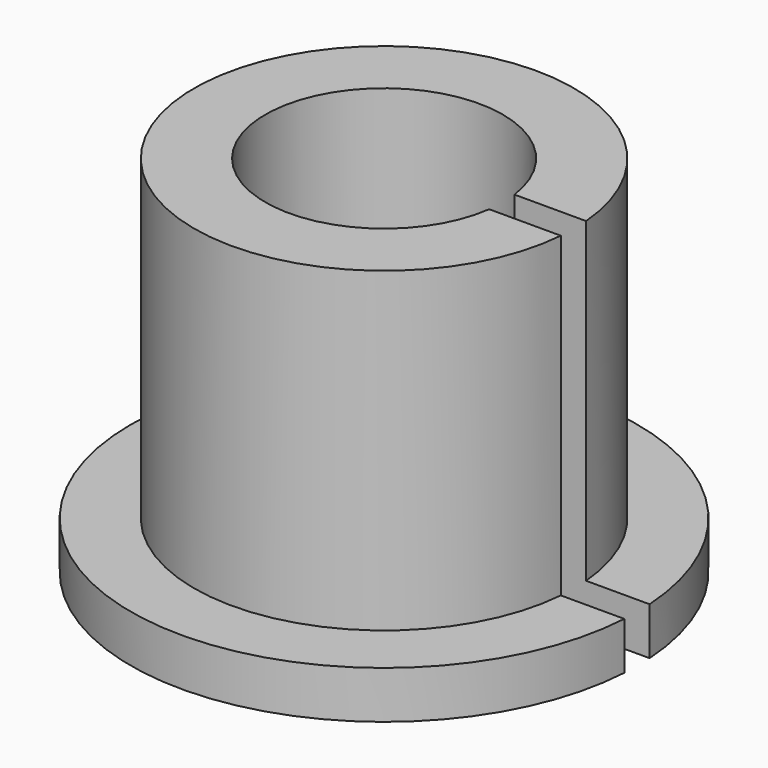
from build123d import *

# Parameters (mm, degrees)
BOX_W             = 10
BOX_H             = 1
BOX_DEPTH         = 14
CYLINDER002_R     = 3.75
CYLINDER002_DEPTH = 14
CYLINDER001_R     = 8
CYLINDER001_DEPTH = 1.5
CYLINDER_R        = 6
CYLINDER_DEPTH    = 11.5


with BuildPart() as opening:
    # Box → Box (new body)
    with BuildSketch(Plane(origin=(0, -0.5, -1), x_dir=(1, 0, 0), z_dir=(0, 0, 1))):
        with Locations((5, 0.5)):
            Rectangle(BOX_W, BOX_H)
    extrude(amount=BOX_DEPTH)


with BuildPart() as inner:
    # Cylinder002 → Cylinder002 (new body)
    with BuildSketch(Plane.XY.offset(-1)):
        Circle(CYLINDER002_R)
    extrude(amount=CYLINDER002_DEPTH)


with BuildPart() as base:
    # Cylinder001 → Cylinder001 (new body)
    with BuildSketch(Plane.XY):
        Circle(CYLINDER001_R)
    extrude(amount=CYLINDER001_DEPTH)


with BuildPart() as gap:
    # Cylinder → Cylinder (new body)
    with BuildSketch(Plane.XY):
        Circle(CYLINDER_R)
    extrude(amount=CYLINDER_DEPTH)

    # Fusion: union base
    add(base.part)

    # Cut: cut inner
    add(inner.part, mode=Mode.SUBTRACT)

    # Cut001: cut opening
    add(opening.part, mode=Mode.SUBTRACT)


solid = gap.part
